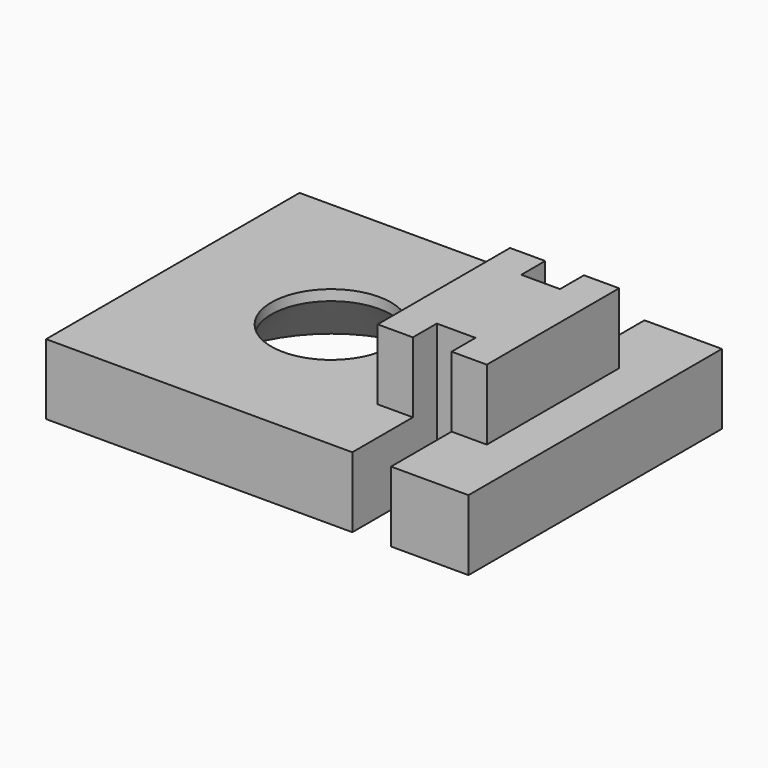
from build123d import *

# Parameters (mm, degrees)
SKETCH_W     = 12
SKETCH_H     = 9
SKETCH_R     = 1.7
PAD_DEPTH    = 2
SKETCH001_W  = 3.1
SKETCH001_H  = 4.7
PAD001_DEPTH = 2
SKETCH002_W  = 1.1
SKETCH002_H  = 5
POCKET_DEPTH = 4.001
CHAMFER_SIZE = 1.7


with BuildPart() as part:
    # Sketch → Pad (new body)
    with BuildSketch(Plane.XY):
        with Locations((-1.5, 0)):
            Rectangle(SKETCH_W, SKETCH_H)
        with Locations((-3, 0)):
            Circle(SKETCH_R, mode=Mode.SUBTRACT)
    extrude(amount=PAD_DEPTH)

    # Sketch001 → Pad001 (new body)
    with BuildSketch(Plane.XY.offset(2)):
        with Locations((1.75, 0)):
            Rectangle(SKETCH001_W, SKETCH001_H)
    extrude(amount=PAD001_DEPTH)

    # Sketch002 → Pocket (cut, through all)
    with BuildSketch(Plane.XY.offset(4)):
        with Locations((1.75, 4)):
            Rectangle(SKETCH002_W, SKETCH002_H)
        with Locations((1.75, -4)):
            Rectangle(SKETCH002_W, SKETCH002_H)
    extrude(amount=-POCKET_DEPTH, mode=Mode.SUBTRACT)

    # Chamfer
    chamfer_edges = [part.edges().sort_by_distance(p)[0] for p in [
        (-4.7, 0, 0),
    ]]
    chamfer(chamfer_edges, length=CHAMFER_SIZE)


solid = part.part
